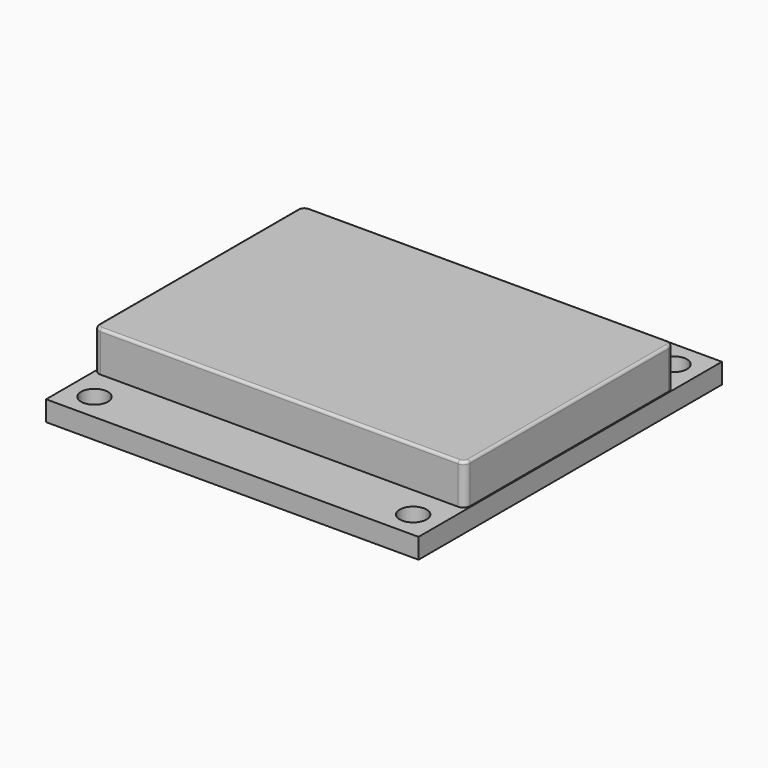
from build123d import *

# Parameters (mm, degrees)
F0_W     = 27.7
F0_H     = 28.2
F0_R     = 1
F2_DEPTH = 1.5
F3_W     = 27.6
F3_H     = 19.46
F4_DEPTH = 3
F5_R     = 0.5
F6_R     = 0.2


with BuildPart() as f2:
    # F0 (on Top) → F2 (new body)
    with BuildSketch(Plane.XY):
        with Locations((0.0295223769, -0.0248048455)):
            Rectangle(F0_W, F0_H)
        with Locations((-11.8204776231, -12.1248048455)):
            Circle(F0_R, mode=Mode.SUBTRACT)
        with Locations((11.8795223769, -12.1248048455)):
            Circle(F0_R, mode=Mode.SUBTRACT)
        with Locations((-11.8204776231, 12.0751951545)):
            Circle(F0_R, mode=Mode.SUBTRACT)
        with Locations((11.8795223769, 12.0751951545)):
            Circle(F0_R, mode=Mode.SUBTRACT)
    extrude(amount=F2_DEPTH)

    # F3 (on face) → F4 (join)
    with BuildSketch(Plane.XY.offset(1.5)):
        Rectangle(F3_W, F3_H)
    extrude(amount=F4_DEPTH)

    # F5
    f5_edges = [f2.edges().sort_by_distance(p)[0] for p in [
        (13.8, -9.73, 3),
        (13.8, 9.73, 3),
        (-13.8, 9.73, 3),
        (-13.8, -9.73, 3),
    ]]
    fillet(f5_edges, radius=F5_R)

    # F6
    f6_edges = [f2.edges().sort_by_distance(p)[0] for p in [
        (0, 9.73, 4.5),
        (13.653553, 9.583553, 4.5),
        (-13.653553, 9.583553, 4.5),
        (13.8, 0, 4.5),
        (-13.8, 0, 4.5),
        (13.653553, -9.583553, 4.5),
        (-13.653553, -9.583553, 4.5),
        (0, -9.73, 4.5),
    ]]
    fillet(f6_edges, radius=F6_R)


solid = f2.part
